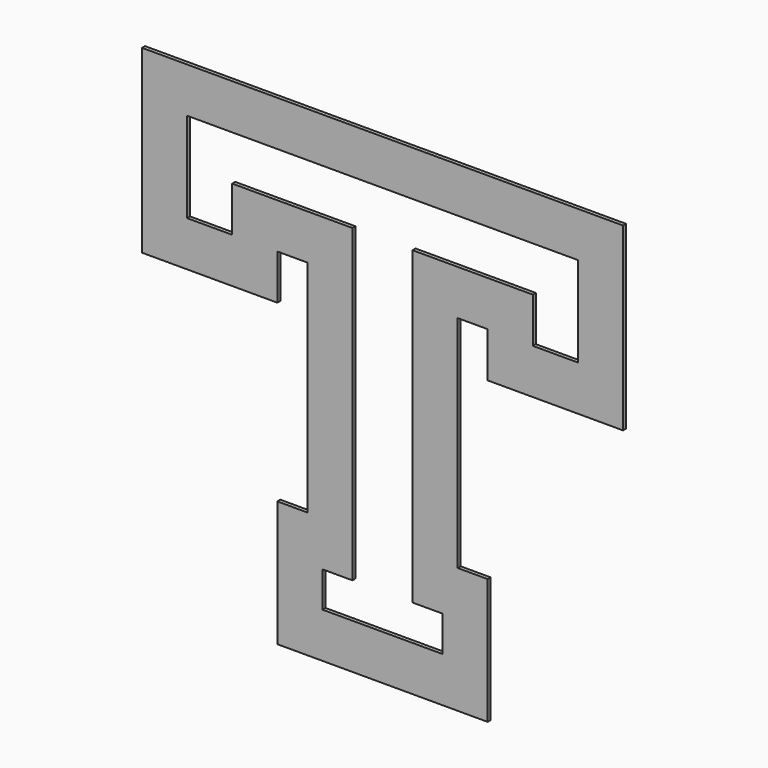
from build123d import *

# Parameters (mm, degrees)
F1_DEPTH = 3.175


with BuildPart() as f1:
    # F0 (on Front) → F1 (new body)
    with BuildSketch(Plane.XZ):
        Polygon((-88.9, 254), (-63.5, 254), (-63.5, 68.119521), (-88.9, 68.119521), (-88.9, -38.1), (0, -38.1), (88.9, -38.1), (88.9, 68.119521), (63.5, 68.119521), (63.5, 254), (88.9, 254), (88.9, 215.9), (203.2, 215.9), (203.2, 368.3), (0, 368.3), (-203.2, 368.3), (-203.2, 215.9), (-88.9, 215.9), align=None)
        Polygon((-127, 330.2), (-25.4, 330.2), (0, 330.2), (165.1, 330.2), (165.1, 254), (127, 254), (127, 292.1), (25.4, 292.1), (25.4, 30.019521), (50.8, 30.019521), (50.8, 0), (0, 0), (-25.4, 0), (-50.8, 0), (-50.8, 30.019521), (-25.4, 30.019521), (-25.4, 292.1), (-127, 292.1), (-127, 254), (-165.1, 254), (-165.1, 292.1), (-165.1, 330.2), align=None, mode=Mode.SUBTRACT)
    extrude(amount=F1_DEPTH)


solid = f1.part
